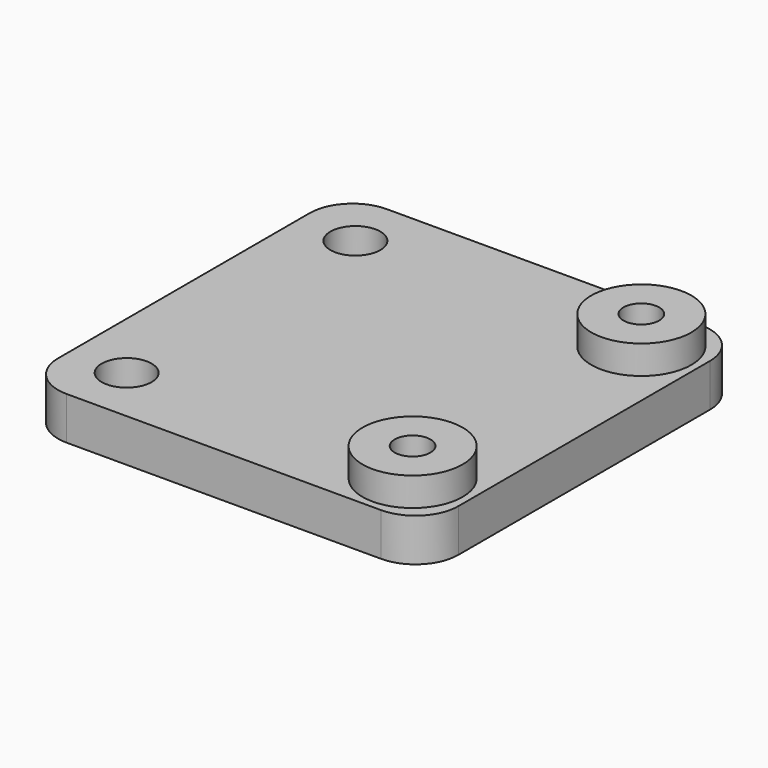
from build123d import *

# Parameters (mm, degrees)
SKETCH_W      = 28
SKETCH_H      = 28
SKETCH_R      = 1.75
SKETCH_R_2    = 1.25
PAD_DEPTH     = 3
SKETCH001_R   = 3.5
SKETCH001_R_2 = 1.25
PAD001_DEPTH  = 2
FILLET_R      = 3


with BuildPart() as part:
    # Sketch → Pad (new body)
    with BuildSketch(Plane.XY):
        with Locations((14, 14)):
            Rectangle(SKETCH_W, SKETCH_H)
        with Locations((4, 24)):
            Circle(SKETCH_R, mode=Mode.SUBTRACT)
        with Locations((24, 24)):
            Circle(SKETCH_R_2, mode=Mode.SUBTRACT)
        with Locations((24, 4)):
            Circle(SKETCH_R_2, mode=Mode.SUBTRACT)
        with Locations((4, 4)):
            Circle(SKETCH_R, mode=Mode.SUBTRACT)
    extrude(amount=PAD_DEPTH)

    # Sketch001 (on Face10 of Pad) → Pad001 (join)
    with BuildSketch(Plane.XY.offset(3)):
        with Locations((24, 4)):
            Circle(SKETCH001_R)
        with Locations((24, 4)):
            Circle(SKETCH001_R_2, mode=Mode.SUBTRACT)
        with Locations((24, 24)):
            Circle(SKETCH001_R)
        with Locations((24, 24)):
            Circle(SKETCH001_R_2, mode=Mode.SUBTRACT)
    extrude(amount=PAD001_DEPTH)

    # Fillet
    fillet_edges = [part.edges().sort_by_distance(p)[0] for p in [
        (0, 0, 1.5),
        (0, 28, 1.5),
        (28, 0, 1.5),
        (28, 28, 1.5),
    ]]
    fillet(fillet_edges, radius=FILLET_R)


solid = part.part
